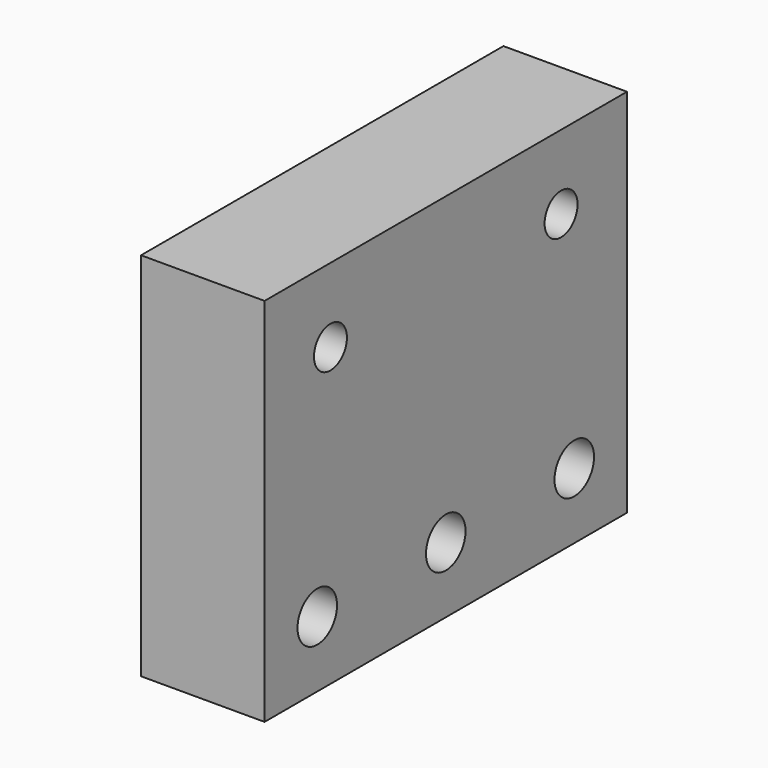
from build123d import *

# Parameters (mm, degrees)
F0_W           = 55
F0_H           = 45
F1_DEPTH       = 15
F4_D           = 6
F4_DEPTH       = 15
F4_CSINK_D     = 10.4
F4_CSINK_ANGLE = 90
F4_TIP         = 1.8025818571
F5_D           = 5
F5_DEPTH       = 10
F5_TIP         = 1.5021515476


with BuildPart() as f1:
    # F0 (on Right) → F1 (new body)
    with BuildSketch(Plane.YZ):
        Rectangle(F0_W, F0_H)
    extrude(amount=F1_DEPTH)

    # F4
    with Locations(Plane(origin=(0, 0, 0), x_dir=(0, -1, 0), z_dir=(-1, 0, 0))):
        with Locations((-19.5, -14.5), (0, -14.5), (19.5, -14.5)):
            CounterSinkHole(F4_D / 2, F4_CSINK_D / 2, depth=F4_DEPTH, counter_sink_angle=F4_CSINK_ANGLE)
            with Locations((0, 0, -(F4_DEPTH + F4_TIP / 2))):  # 118° drill point
                Cone(0, F4_D / 2, F4_TIP, mode=Mode.SUBTRACT)

    # F5
    with Locations(Plane.YZ.offset(15)):
        with Locations((-17.5, 13.5), (17.5, 13.5)):
            Hole(F5_D / 2, depth=F5_DEPTH)
            with Locations((0, 0, -(F5_DEPTH + F5_TIP / 2))):  # 118° drill point
                Cone(0, F5_D / 2, F5_TIP, mode=Mode.SUBTRACT)


solid = f1.part
